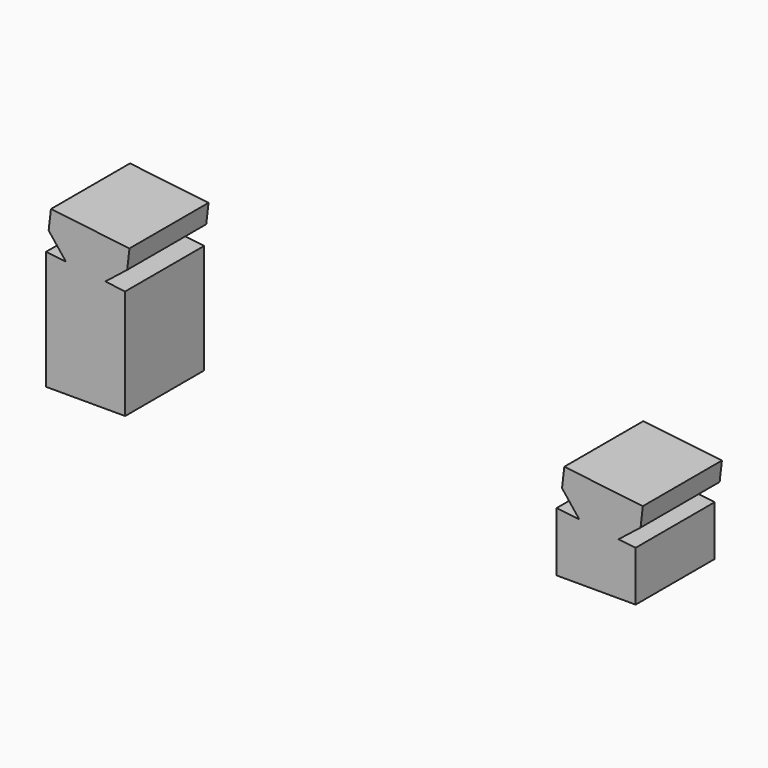
from build123d import *

# Parameters (mm, degrees)
F0_W     = 20
F0_H     = 27.7403057384
F1_DEPTH = 12.5
F0_W_2   = 10
F0_H_2   = 12.6649629206
F3_W     = 9
F3_H     = 11.5
F4_DEPTH = 1
F2_W     = 9
F2_H     = 11.5
F5_DEPTH = 1


with BuildPart() as f1:
    # F0 (on Front) → F1 (new body, symmetric)
    with BuildSketch(Plane.XZ):
        with Locations((-0.8697313164, 3.1060690337)):
            Rectangle(F0_W, F0_H)
        Polygon((-10.8697313164, 16.9762219029), (9.1302686836, 16.9762219029), (4.0965356669, 17.563919565), (-0.8697313164, 18.1437404426), (-5.8359982998, 18.7235613202), (-10.8697313164, 19.3112589823), align=None)
        Polygon((-5.8359982998, 18.7235613202), (-0.8697313164, 18.1437404426), (-0.2899104388, 23.1100074259), (-5.2561774222, 23.6898283036), align=None)
        Polygon((-0.2899104388, 23.1100074259), (4.6763565445, 22.5301865483), (9.6426235279, 21.9503656707), (10.2224444055, 26.9166326541), (-9.6426235279, 29.2359161645), (-10.2224444055, 24.2696491812), (-5.2561774222, 23.6898283036), align=None)
        Polygon((-0.8697313164, 18.1437404426), (4.0965356669, 17.563919565), (4.6763565445, 22.5301865483), (-0.2899104388, 23.1100074259), align=None)
        Polygon((4.6763565445, 22.5301865483), (4.0965356669, 17.563919565), (9.6426235279, 21.9503656707), align=None)
        Polygon((-10.2224444055, 24.2696491812), (-5.8359982998, 18.7235613202), (-5.2561774222, 23.6898283036), align=None)
    extrude(amount=F1_DEPTH, both=True)

    # F3 (on face) → F4 (cut)
    with BuildSketch(Plane(origin=(0, 0, -10.7640838355), x_dir=(1, 0, 0), z_dir=(0, 0, -1))):
        with Locations((-5.3697313164, 5.75)):
            Rectangle(F3_W, F3_H)
        with Locations((3.6302686836, 5.75)):
            Rectangle(F3_W, F3_H)
        with Locations((3.6302686836, -5.75)):
            Rectangle(F3_W, F3_H)
        with Locations((-5.3697313164, -5.75)):
            Rectangle(F3_W, F3_H)
    extrude(amount=-F4_DEPTH, mode=Mode.SUBTRACT)


with BuildPart() as f1b:
    # F0 (on Front) → F1, piece 2 (new body, symmetric)
    with BuildSketch(Plane.XZ):
        Polygon((124.5914150333, 8.5298811511), (124.0115941557, 3.5636141677), (128.2532102506, 3.0683976248), (133.9441281224, 2.4039724125), (134.523949, 7.3702393959), (139.4902159833, 6.7904185183), (140.070036861, 11.7566855016), (120.2049689276, 14.075969012), (119.62514805, 9.1097020287), align=None)
        with Locations((123.2532102506, -4.4316023752)):
            Rectangle(F0_W_2, F0_H_2)
        with Locations((133.2532102506, -4.4316023752)):
            Rectangle(F0_W_2, F0_H_2)
        Polygon((128.2532102506, 3.0683976248), (128.2532102506, 1.9008790851), (138.2532102506, 1.9008790851), (133.9441281224, 2.4039724125), align=None)
        Polygon((124.0115941557, 3.5636141677), (118.2532102506, 4.2359161645), (118.2532102506, 1.9008790851), (128.2532102506, 1.9008790851), (128.2532102506, 3.0683976248), align=None)
        Polygon((134.523949, 7.3702393959), (133.9441281224, 2.4039724125), (139.4902159833, 6.7904185183), align=None)
        Polygon((119.62514805, 9.1097020287), (124.0115941557, 3.5636141677), (124.5914150333, 8.5298811511), align=None)
    extrude(amount=F1_DEPTH, both=True)

    # F2 (on face) → F5 (cut)
    with BuildSketch(Plane(origin=(0, 0, -10.7640838355), x_dir=(1, 0, 0), z_dir=(0, 0, -1))):
        with Locations((132.7532102506, 5.75)):
            Rectangle(F2_W, F2_H)
        with Locations((132.7532102506, -5.75)):
            Rectangle(F2_W, F2_H)
        with Locations((123.7532102506, -5.75)):
            Rectangle(F2_W, F2_H)
        with Locations((123.7532102506, 5.75)):
            Rectangle(F2_W, F2_H)
    extrude(amount=-F5_DEPTH, mode=Mode.SUBTRACT)


solid = Compound([f1.part, f1b.part])
